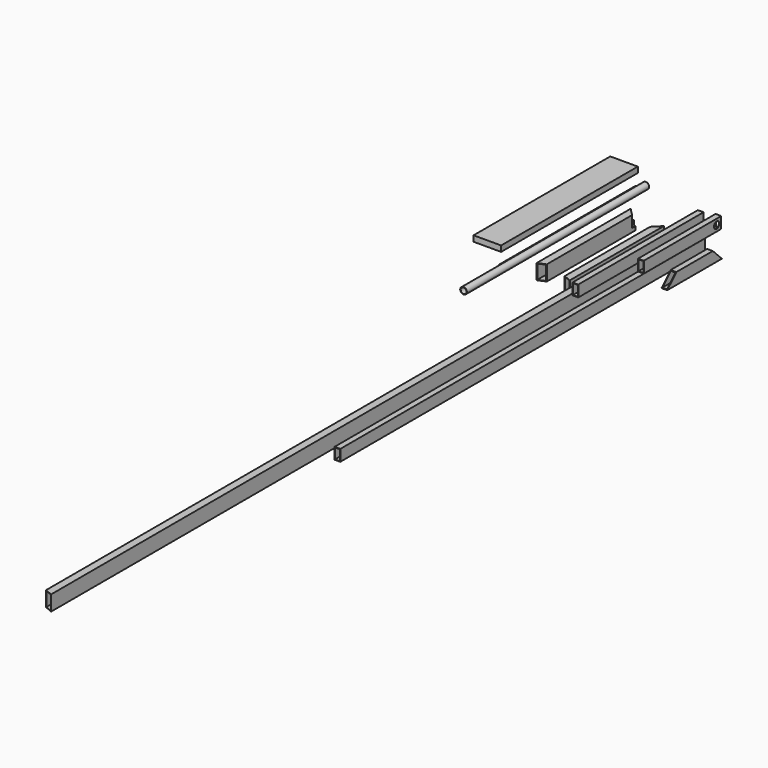
from build123d import *

# Parameters (mm, degrees)
F0_W      = 184.15
F0_H      = 38.1
F1_DEPTH  = 1143
F0_R      = 22.225
F0_R_2    = 19.05
F2_DEPTH  = 1524
F3_DEPTH  = 1143
F0_W_2    = 50.8
F0_H_2    = 101.5999930616
F0_W_3    = 44.704
F0_H_3    = 95.5039930616
F4_DEPTH  = 812.8
F5_DEPTH  = 5283.2
F0_W_4    = 38.1
F0_H_4    = 76.2
F0_W_5    = 32.004
F0_H_5    = 70.104
F6_DEPTH  = 1047.75
F7_DEPTH  = 3048
F8_DEPTH  = 647.7
F9_DEPTH  = 457.2
F12_R     = 22.225
F13_DEPTH = 38.1
F15_DEPTH = 38.1
F16_DEPTH = 101.6
F17_DEPTH = 76.2
F18_DEPTH = 101.6
F19_DEPTH = 101.6
F20_DEPTH = 812.8
F22_DEPTH = 101.6
F23_DEPTH = 76.2


with BuildPart() as f1:
    # F0 (on Front) → F1 (new body)
    with BuildSketch(Plane.XZ):
        with Locations((-391.1115131855, 294.9241080761)):
            Rectangle(F0_W, F0_H)
    extrude(amount=F1_DEPTH)


with BuildPart() as f2:
    # F0 (on Front) → F2 (new body)
    with BuildSketch(Plane.XZ):
        with Locations((-245.3070729971, 219.6483165026)):
            Circle(F0_R)
        with Locations((-245.3070729971, 219.6483165026)):
            Circle(F0_R_2, mode=Mode.SUBTRACT)
    extrude(amount=F2_DEPTH)


with BuildPart() as f3:
    # F0 (on Front) → F3 (new body)
    with BuildSketch(Plane.XZ):
        Polygon((-312.0547735214, 194.5774768591), (-315.2297735214, 194.5774768591), (-315.2297735214, 162.8274768591), (-283.4797735214, 162.8274768591), (-283.4797735214, 166.0024768591), (-312.0547735214, 166.0024768591), align=None)
    extrude(amount=F3_DEPTH)


with BuildPart() as f4:
    # F0 (on Front) → F4 (new body)
    with BuildSketch(Plane.XZ):
        with Locations((-128.9231777191, -12.8643456846)):
            Rectangle(F0_W_2, F0_H_2)
        with Locations((-128.9231777191, -12.8643456846)):
            Rectangle(F0_W_3, F0_H_3, mode=Mode.SUBTRACT)
    extrude(amount=F4_DEPTH)

    # F10 (on face) → F16 (cut)
    with BuildSketch(Plane.XY.offset(37.9356508461)):
        Polygon((-154.3231777191, -50.8), (-103.5231777191, 0), (-154.3231777191, 0), align=None)
    extrude(amount=-F16_DEPTH, mode=Mode.SUBTRACT)

    # F10 (on face) → F17 (cut)
    with BuildSketch(Plane.XY.offset(37.9356508461)):
        Polygon((-154.3231777191, -77.7407683632), (-103.5231777191, -26.9407683632), (-103.5231777191, 0), (-154.3231777191, -50.8), align=None)
    extrude(amount=-F17_DEPTH, mode=Mode.SUBTRACT)

    # F10 (on face) → F18 (cut)
    with BuildSketch(Plane.XY.offset(37.9356508461)):
        Polygon((-154.3231777191, -812.8), (-103.5231777191, -812.8), (-154.3231777191, -791.7579510314), align=None)
    extrude(amount=-F18_DEPTH, mode=Mode.SUBTRACT)


with BuildPart() as f5:
    # F0 (on Front) → F5 (new body)
    with BuildSketch(Plane.XZ):
        with Locations((-22.352, -10.4024226334)):
            Rectangle(F0_W_2, F0_H_2)
        with Locations((-22.352, -10.4024226334)):
            Rectangle(F0_W_3, F0_H_3, mode=Mode.SUBTRACT)
    extrude(amount=F5_DEPTH)

    # F11 (on face) → F19 (cut)
    with BuildSketch(Plane.XY.offset(40.3975738974)):
        Polygon((-47.752, -5283.2), (3.048, -5283.2), (-47.752, -5262.1579510314), align=None)
    extrude(amount=-F19_DEPTH, mode=Mode.SUBTRACT)


with BuildPart() as f6:
    # F0 (on Front) → F6 (new body)
    with BuildSketch(Plane.XZ):
        with Locations((122.0478639007, 150.1430720091)):
            Rectangle(F0_W_4, F0_H_4)
        with Locations((122.0478639007, 150.1430720091)):
            Rectangle(F0_W_5, F0_H_5, mode=Mode.SUBTRACT)
    extrude(amount=F6_DEPTH)


with BuildPart() as f7:
    # F0 (on Front) → F7 (new body)
    with BuildSketch(Plane.XZ):
        with Locations((130.0213145256, -2.1859001739)):
            Rectangle(F0_W_4, F0_H_4)
        with Locations((130.0213145256, -2.1859001739)):
            Rectangle(F0_W_5, F0_H_5, mode=Mode.SUBTRACT)
    extrude(amount=F7_DEPTH)


with BuildPart() as f8:
    # F0 (on Front) → F8 (new body)
    with BuildSketch(Plane.XZ):
        with Locations((240.2129620314, 166.165471077)):
            Rectangle(F0_W_4, F0_H_4)
        with Locations((240.2129620314, 166.165471077)):
            Rectangle(F0_W_5, F0_H_5, mode=Mode.SUBTRACT)
    extrude(amount=F8_DEPTH)

    # F12 (on face) → F13 (cut)
    with BuildSketch(Plane.YZ.offset(259.2629620314)):
        with Locations((-38.1, 166.165471077)):
            Circle(F12_R)
    extrude(amount=-F13_DEPTH, mode=Mode.SUBTRACT)


with BuildPart() as f9:
    # F0 (on Front) → F9 (new body)
    with BuildSketch(Plane.XZ):
        with Locations((244.8861449957, -7.4103875086)):
            Rectangle(F0_W_4, F0_H_4)
        with Locations((244.8861449957, -7.4103875086)):
            Rectangle(F0_W_5, F0_H_5, mode=Mode.SUBTRACT)
    extrude(amount=F9_DEPTH)

    # F14 (on face) → F15 (cut)
    with BuildSketch(Plane.YZ.offset(263.9361449957)):
        Polygon((-457.2, 30.6896124914), (-457.2, -45.5103875086), (-381, 30.6896124914), align=None)
        Polygon((-76.2, 30.6896124914), (0, -45.5103875086), (0, 30.6896124914), align=None)
    extrude(amount=-F15_DEPTH, mode=Mode.SUBTRACT)


with BuildPart() as f20:
    # F0 (on Front) → F20 (new body)
    with BuildSketch(Plane.XZ):
        with Locations((-299.823731184, 17.2296445817)):
            Rectangle(F0_W_2, F0_H_2)
        with Locations((-299.823731184, 17.2296445817)):
            Rectangle(F0_W_3, F0_H_3, mode=Mode.SUBTRACT)
    extrude(amount=F20_DEPTH)

    # F21 (on face) → F22 (cut)
    with BuildSketch(Plane.XY.offset(68.0296411125)):
        Polygon((-274.423731184, -791.7579510314), (-325.223731184, -812.8), (-274.423731184, -812.8), align=None)
        Polygon((-274.423731184, 0), (-325.223731184, 0), (-274.423731184, -50.8), align=None)
    extrude(amount=-F22_DEPTH, mode=Mode.SUBTRACT)

    # F21 (on face) → F23 (cut)
    with BuildSketch(Plane.XY.offset(68.0296411125)):
        Polygon((-325.223731184, 0), (-325.223731184, -26.9407683632), (-274.423731184, -77.7407683632), (-274.423731184, -50.8), align=None)
    extrude(amount=-F23_DEPTH, mode=Mode.SUBTRACT)


solid = Compound([f1.part, f2.part, f3.part, f4.part, f5.part, f6.part, f7.part, f8.part, f9.part, f20.part])
